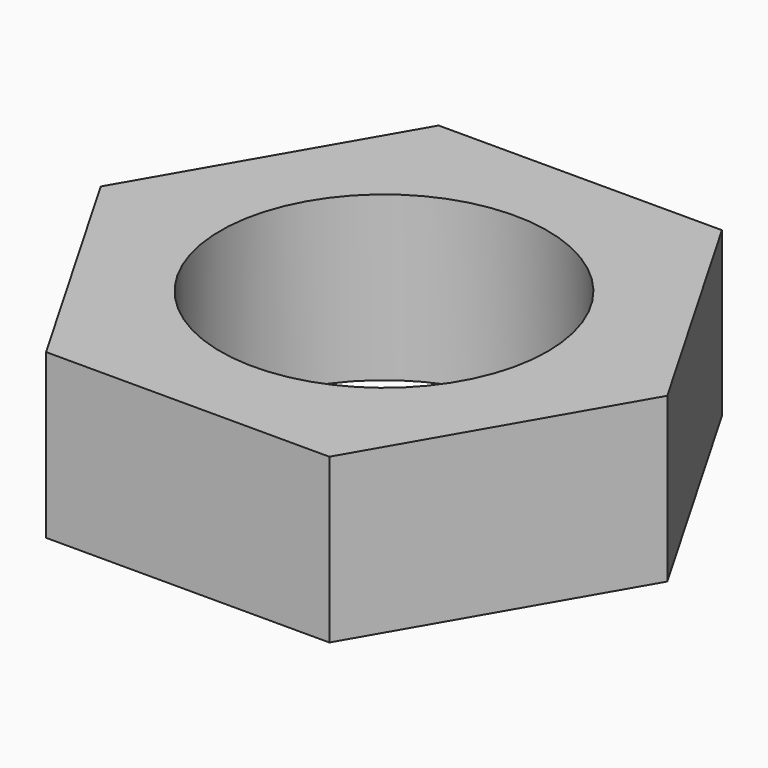
from build123d import *

# Parameters (mm, degrees)
F0_R     = 10
F1_DEPTH = 10


with BuildPart() as f1:
    # F0 (on Top) → F1 (new body)
    with BuildSketch(Plane.XY):
        Polygon((-37.010255, 12.600002), (-19.689747, 12.600002), (-11.029493, 27.600002), (-19.689747, 42.600002), (-37.010255, 42.600002), (-45.670509, 27.600002), align=None)
        with Locations((-28.350001, 27.600002)):
            Circle(F0_R, mode=Mode.SUBTRACT)
    extrude(amount=-F1_DEPTH)


solid = f1.part
